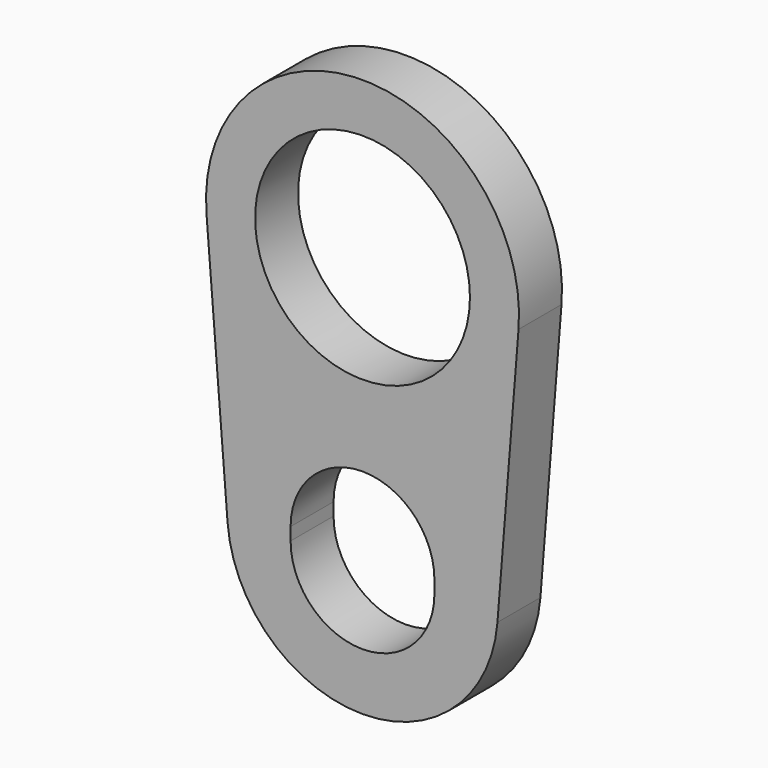
from build123d import *

# Parameters (mm, degrees)
F0_R     = 25.4
F1_DEPTH = 12.7


with BuildPart() as f1:
    # F0 (on Front) → F1 (new body)
    with BuildSketch(Plane.XZ):
        with BuildLine():
            Line((31.8990597447, -65.5396825397), (36.8832878298, -2.9365079365))
            ThreePointArc((36.8832878298, -2.9365079365), (0, 37), (-36.8832878298, -2.9365079365))
            Line((-36.8832878298, -2.9365079365), (-31.8990597447, -65.5396825397))
            ThreePointArc((-31.8990597447, -65.5396825397), (0, -95), (31.8990597447, -65.5396825397))
        make_face()
        with BuildLine():
            Line((-17, -64.5), (-17, -61.5))
            ThreePointArc((-17, -61.5), (0, -44.5), (17, -61.5))
            Line((17, -61.5), (17, -64.5))
            ThreePointArc((17, -64.5), (0, -81.5), (-17, -64.5))
        make_face(mode=Mode.SUBTRACT)
        Circle(F0_R, mode=Mode.SUBTRACT)
    extrude(amount=F1_DEPTH)


solid = f1.part
